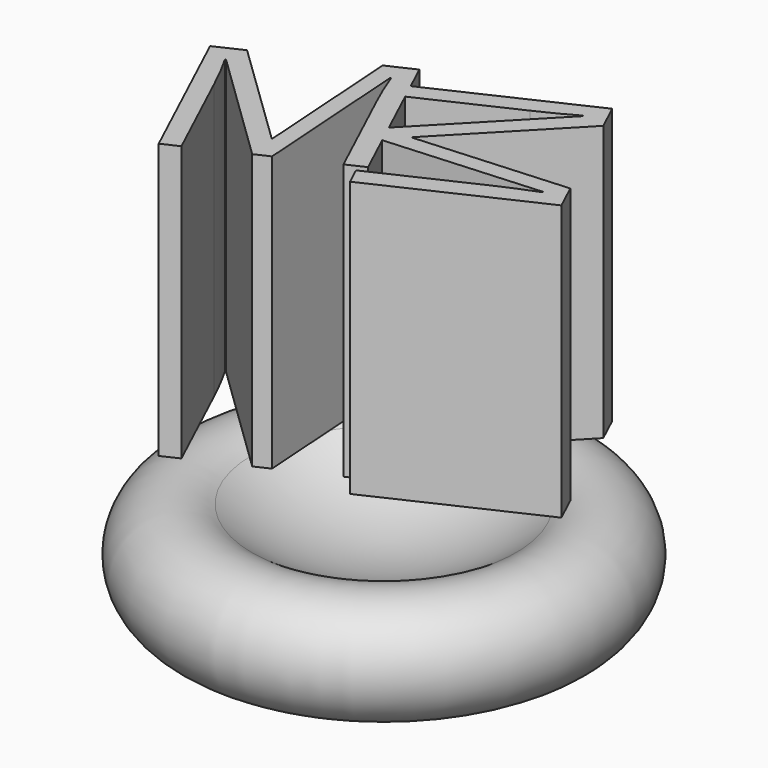
from build123d import *

# Parameters (mm, degrees)
F4_DEPTH = 25


with BuildPart() as f1:
    # F0 (on Front) → F1 (revolve)
    with BuildSketch(Plane.XZ):
        with BuildLine():
            ThreePointArc((0, 5), (-6.3245553203, 6.026334039), (-12, 9))
            ThreePointArc((-12, 9), (-19.7434164903, 6.5811388301), (-15, 0))
            Line((-15, 0), (0, 0))
            Line((0, 0), (0, 5))
        make_face()
    revolve(axis=Axis((0, 0, 2.5), (0, 0, -1)))


with BuildPart() as f4:
    # F3 (on offset) → F4 (new body)
    with BuildSketch(Plane.XY.offset(15)):
        with BuildLine():
            Line((-14.2537592146, -0.138063944), (-3.71841477, -10.3323267397))
            Line((-3.71841477, -10.3323267397), (-2.4070676478, -9.720835534))
            Line((-2.4070676478, -9.720835534), (-3.3959341978, 4.9026423091))
            Line((-3.3959341978, 4.9026423091), (-3.3193368191, 4.9383602534))
            add(Edge.make_bspline(
                [(-1.8825586584, 1.5052120114), (-2.6054898501, 3.0555429551), (-3.3193368191, 4.9383602534)],
                knots=[0, 0, 0, 1, 1, 1], degree=2))
            Line((-1.8825586584, 1.5052120114), (2.3235864569, -7.514895297))
            Line((2.3235864569, -7.514895297), (3.9505147792, -6.756246161))
            Line((3.9505147792, -6.756246161), (2.1468541816, -2.8882835272))
            Line((2.1468541816, -2.8882835272), (1.3830511721, -2.9399332958))
            Line((1.3830511721, -2.9399332958), (0.7715599665, -1.6285861735))
            Line((0.7715599665, -1.6285861735), (1.3032305626, -1.079126838))
            Line((1.3032305626, -1.079126838), (-0.7686408704, 3.3640157885))
            Line((-0.7686408704, 3.3640157885), (-1.4158069396, 3.0622372943))
            Line((-1.4158069396, 3.0622372943), (-2.1173073648, 4.5666098107))
            Line((-2.1173073648, 4.5666098107), (-1.4701412955, 4.8683883049))
            Line((-1.4701412955, 4.8683883049), (-2.5772967126, 7.2426907588))
            Line((-2.5772967126, 7.2426907588), (-5.0100294581, 6.1082888494))
            Line((-5.0100294581, 6.1082888494), (-4.0954151998, -7.5240311807))
            Line((-4.0954151998, -7.5240311807), (-4.1720125784, -7.559749125))
            Line((-4.1720125784, -7.559749125), (-13.9903061296, 1.9207170651))
            Line((-13.9903061296, 1.9207170651), (-16.441422246, 0.777742849))
            Line((-16.441422246, 0.777742849), (-9.9136107543, -13.2211940709))
            Line((-9.9136107543, -13.2211940709), (-8.4092382378, -12.5196936457))
            Line((-8.4092382378, -12.5196936457), (-12.5610920778, -3.6160143529))
            add(Edge.make_bspline(
                [(-14.3303565933, -0.1737818883), (-13.5083319594, -1.5846518714), (-12.5610920778, -3.6160143529)],
                knots=[0, 0, 0, 1, 1, 1], degree=2))
            Line((-14.3303565933, -0.1737818883), (-14.2537592146, -0.138063944))
        make_face()
        Polygon((1.3830511721, -2.9399332958), (2.1468541816, -2.8882835272), (1.3032305626, -1.079126838), (0.7715599665, -1.6285861735), align=None)
        with BuildLine():
            Line((1.3032305626, -1.079126838), (2.1468541816, -2.8882835272))
            Line((2.1468541816, -2.8882835272), (16.0065290153, -1.9510667458))
            Line((16.0065290153, -1.9510667458), (16.0422469595, -2.0276641244))
            add(Edge.make_bspline(
                [(12.6090987176, -3.4644422852), (14.1594296612, -2.7415110935), (16.0422469595, -2.0276641244)],
                knots=[0, 0, 0, 1, 1, 1], degree=2))
            Line((12.6090987176, -3.4644422852), (3.5889914092, -7.6705874005))
            Line((3.5889914092, -7.6705874005), (4.3476405451, -9.2975157227))
            Line((4.3476405451, -9.2975157227), (18.346577465, -2.769704231))
            Line((18.346577465, -2.769704231), (17.2121755555, -0.3369714854))
            Line((17.2121755555, -0.3369714854), (3.5798555254, -1.2515857438))
            Line((3.5798555254, -1.2515857438), (3.5441375812, -1.1749883651))
            Line((3.5441375812, -1.1749883651), (13.0246037712, 8.6433051861))
            Line((13.0246037712, 8.6433051861), (11.8816295551, 11.0944213025))
            Line((11.8816295551, 11.0944213025), (-1.4701412955, 4.8683883049))
            Line((-1.4701412955, 4.8683883049), (-0.7686408704, 3.3640157885))
            Line((-0.7686408704, 3.3640157885), (7.4878723532, 7.2140911343))
            add(Edge.make_bspline(
                [(10.9301048178, 8.9833556497), (9.5192348347, 8.1613310159), (7.4878723532, 7.2140911343)],
                knots=[0, 0, 0, 1, 1, 1], degree=2))
            Line((10.9301048178, 8.9833556497), (10.9658227621, 8.9067582711))
            Line((10.9658227621, 8.9067582711), (1.3032305626, -1.079126838))
        make_face()
        Polygon((-1.4158069396, 3.0622372943), (-0.7686408704, 3.3640157885), (-1.4701412955, 4.8683883049), (-2.1173073648, 4.5666098107), align=None)
    extrude(amount=F4_DEPTH)


solid = Compound([f1.part, f4.part])
